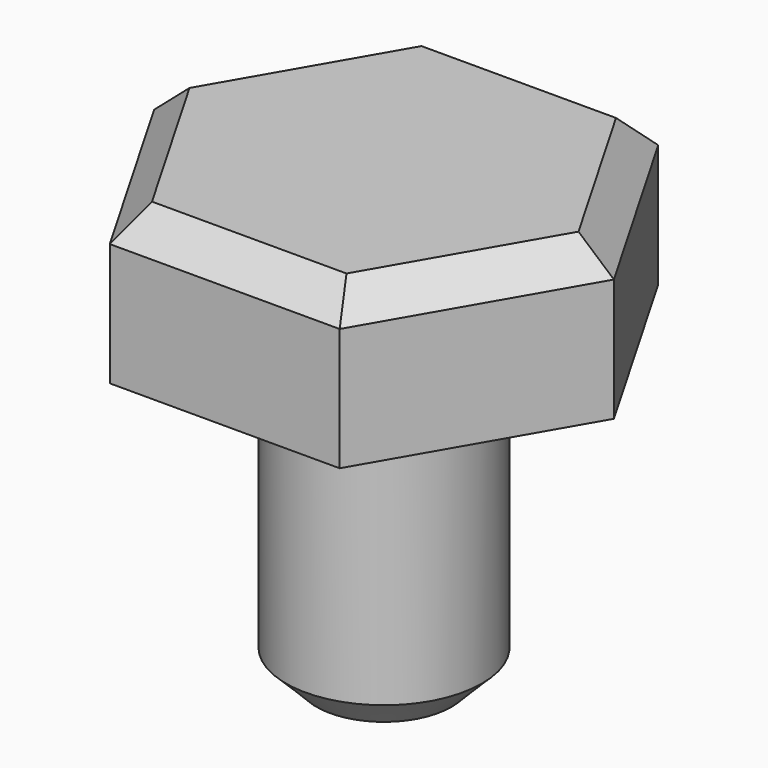
from build123d import *

# Parameters (mm, degrees)
F0_R     = 3.2
F1_DEPTH = 10
F2_R     = 3.2
F3_DEPTH = 5
F4_SIZE  = 1


with BuildPart() as f1:
    # F0 (on Top) → F1 (new body)
    with BuildSketch(Plane.XY):
        Circle(F0_R)
    extrude(amount=F1_DEPTH)

    # F2 (on face) → F3 (join)
    with BuildSketch(Plane.XY.offset(10)):
        Polygon((3.75, -6.495191), (7.5, 0), (3.75, 6.495191), (-3.75, 6.495191), (-7.5, 0), (-3.75, -6.495191), align=None)
        Circle(F2_R, mode=Mode.SUBTRACT)
        Circle(F2_R)
    extrude(amount=F3_DEPTH)

    # F4
    f4_edges = [f1.edges().sort_by_distance(p)[0] for p in [
        (0, -6.495191, 15),
        (5.625, -3.247595, 15),
        (5.625, 3.247595, 15),
        (0, 6.495191, 15),
        (-5.625, 3.247595, 15),
        (-5.625, -3.247595, 15),
        (-3.2, 0, 0),
    ]]
    chamfer(f4_edges, length=F4_SIZE)


solid = f1.part
